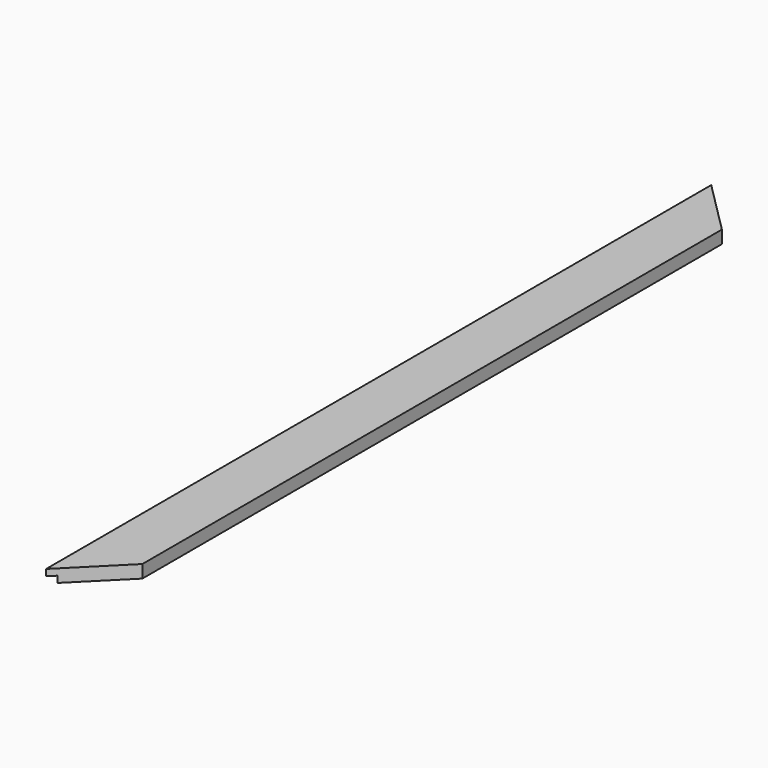
from build123d import *

# Parameters (mm, degrees)
F0_W     = 50
F0_H     = 777
F1_DEPTH = 12
F2_W     = 6
F2_H     = 777
F3_DEPTH = 6
F5_DEPTH = 12
F7_DEPTH = 12


with BuildPart() as f1:
    # F0 (on Top) → F1 (new body)
    with BuildSketch(Plane.XY):
        Rectangle(F0_W, F0_H)
    extrude(amount=F1_DEPTH)

    # F2 (on face) → F3 (cut)
    with BuildSketch(Plane(origin=(0, 0, 0), x_dir=(1, 0, 0), z_dir=(0, 0, -1))):
        with Locations((-22, 0)):
            Rectangle(F2_W, F2_H)
    extrude(amount=-F3_DEPTH, mode=Mode.SUBTRACT)

    # F4 (on face) → F5 (cut, through all)
    with BuildSketch(Plane.XY.offset(12)):
        Polygon((25, -338.5), (-25, -388.5), (25, -388.5), align=None)
    extrude(amount=-F5_DEPTH, mode=Mode.SUBTRACT)

    # F6 (on face) → F7 (cut, through all)
    with BuildSketch(Plane.XY.offset(12)):
        Polygon((25, 388.5), (-25, 388.5), (25, 338.5), align=None)
    extrude(amount=-F7_DEPTH, mode=Mode.SUBTRACT)


solid = f1.part
